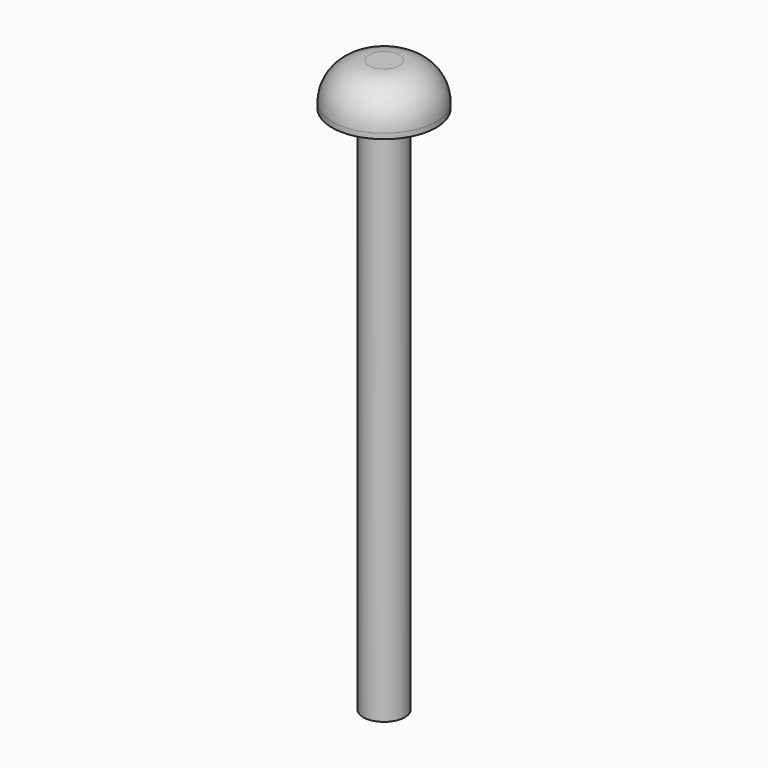
from build123d import *

# Parameters (mm, degrees)
F0_R     = 5
F1_DEPTH = 127
F2_R     = 12.5
F2_R_2   = 5
F3_DEPTH = 10.16
F4_R     = 8.89


with BuildPart() as f1:
    # F0 (on Top) → F1 (new body)
    with BuildSketch(Plane.XY):
        Circle(F0_R)
    extrude(amount=F1_DEPTH)

    # F2 (on face) → F3 (join)
    with BuildSketch(Plane.XY.offset(127)):
        Circle(F2_R)
        Circle(F2_R_2, mode=Mode.SUBTRACT)
        Circle(F2_R_2)
    extrude(amount=F3_DEPTH)

    # F4
    f4_edges = [f1.edges().sort_by_distance(p)[0] for p in [
        (-12.5, 0, 137.16),
    ]]
    fillet(f4_edges, radius=F4_R)


solid = f1.part
